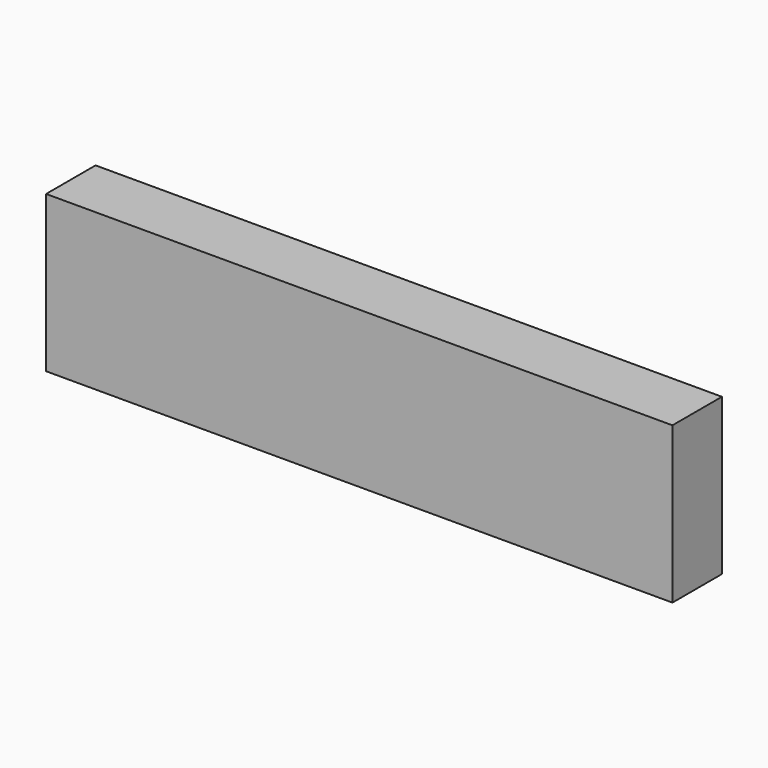
from build123d import *

# Parameters (mm, degrees)
F0_W     = 31.9
F0_H     = 7.95
F1_DEPTH = 1.15
F2_W     = 31.9
F2_H     = 7.95
F2_W_2   = 28.9
F2_H_2   = 4.95
F2_R     = 1.55
F3_DEPTH = 2


with BuildPart() as f1:
    # F0 (on Front) → F1 (new body)
    with BuildSketch(Plane.XZ):
        Rectangle(F0_W, F0_H)
    extrude(amount=F1_DEPTH)

    # F2 (on face) → F3 (join)
    with BuildSketch(Plane(origin=(0, 0, 0), x_dir=(-1, 0, 0), z_dir=(0, 1, 0))):
        Rectangle(F2_W, F2_H)
        Rectangle(F2_W_2, F2_H_2, mode=Mode.SUBTRACT)
        with Locations((-7.85, 0)):
            Circle(F2_R)
        Circle(F2_R)
        with Locations((8.25, 0)):
            Circle(F2_R)
    extrude(amount=F3_DEPTH)


solid = f1.part
